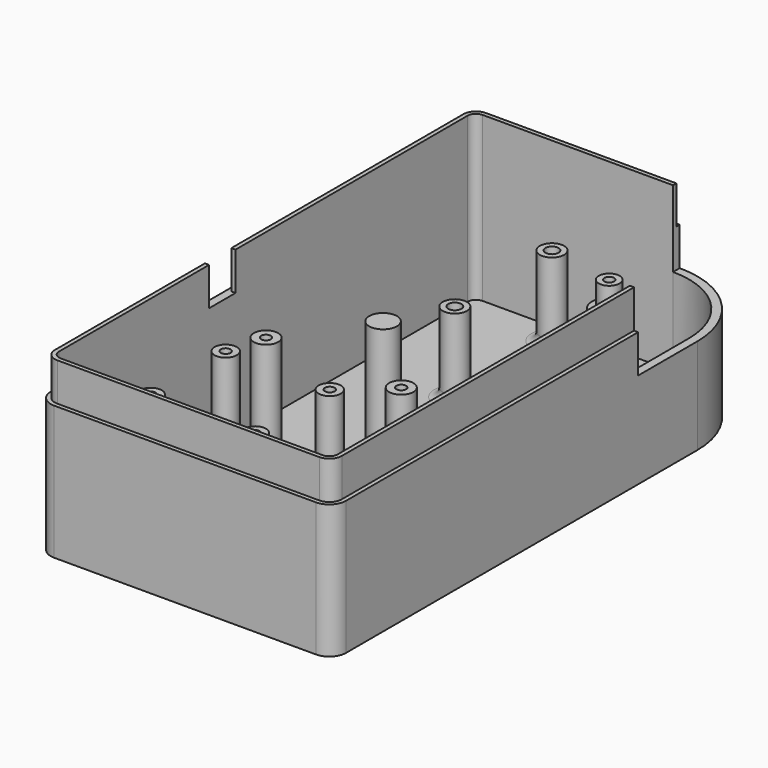
from build123d import *

# Parameters (mm, degrees)
PAD_DEPTH     = 2.4
PAD001_DEPTH  = 25.2
SKETCH002_R   = 3.5
SKETCH002_R_2 = 1.9
PAD002_DEPTH  = 23
SKETCH003_R   = 5
SKETCH003_R_2 = 1.4
PAD003_DEPTH  = 25.4
SKETCH004_R   = 3
SKETCH004_R_2 = 1.4
PAD004_DEPTH  = 7.2
SKETCH005_R   = 3.5
SKETCH005_R_2 = 1.4
SKETCH005_R_3 = 4
PAD005_DEPTH  = 34.6
PAD006_DEPTH  = 11
PAD007_DEPTH  = 11
SKETCH008_R   = 3.2
SKETCH008_R_2 = 1.4
PAD008_DEPTH  = 43.85
FILLET_R      = 2.4


with BuildPart() as part:
    # Sketch → Pad (new body)
    with BuildSketch(Plane.XY):
        with BuildLine():
            ThreePointArc((-37.75, 78.4), (-41.144113, 76.994113), (-42.55, 73.6))
            Line((-42.55, 73.6), (-42.55, -73.6))
            ThreePointArc((-42.55, -73.6), (-41.144113, -76.994113), (-37.75, -78.4))
            Line((-37.75, -78.4), (37.75, -78.4))
            ThreePointArc((37.75, -78.4), (41.144113, -76.994113), (42.55, -73.6))
            Line((42.55, 53), (42.55, -73.6))
            ThreePointArc((42.55, 53), (35.110512, 70.960512), (17.15, 78.4))
            Line((-37.75, 78.4), (17.15, 78.4))
        make_face()
    extrude(amount=PAD_DEPTH)

    # Sketch001 → Pad001 (join)
    with BuildSketch(Plane.XY.offset(2.4)):
        with BuildLine():
            ThreePointArc((-37.75, 78.4), (-41.144113, 76.994113), (-42.55, 73.6))
            Line((-42.55, 73.6), (-42.55, -73.6))
            ThreePointArc((-42.55, -73.6), (-41.144113, -76.994113), (-37.75, -78.4))
            Line((37.75, -78.4), (-37.75, -78.4))
            ThreePointArc((37.75, -78.4), (41.144113, -76.994113), (42.55, -73.6))
            Line((42.55, 53), (42.55, -73.6))
            ThreePointArc((42.55, 53), (35.110512, 70.960512), (17.15, 78.4))
            Line((-37.75, 78.4), (17.15, 78.4))
        make_face()
        with BuildLine():
            ThreePointArc((-37.75, 76), (-39.447056, 75.297056), (-40.15, 73.6))
            Line((-40.15, -73.6), (-40.15, 73.6))
            ThreePointArc((-40.15, -73.6), (-39.447056, -75.297056), (-37.75, -76))
            Line((37.75, -76), (-37.75, -76))
            ThreePointArc((37.75, -76), (39.447056, -75.297056), (40.15, -73.6))
            Line((40.15, 53), (40.15, -73.6))
            ThreePointArc((40.15, 53), (33.413456, 69.263456), (17.15, 76))
            Line((-37.75, 76), (17.15, 76))
        make_face(mode=Mode.SUBTRACT)
    extrude(amount=PAD001_DEPTH)

    # Sketch002 → Pad002 (join)
    with BuildSketch(Plane.XY.offset(2.4)):
        with Locations((-13.35, 70.5)):
            Circle(SKETCH002_R)
        with Locations((-13.35, 70.5)):
            Circle(SKETCH002_R_2, mode=Mode.SUBTRACT)
        with Locations((-13.35, 35.5)):
            Circle(SKETCH002_R)
        with Locations((-13.35, 35.5)):
            Circle(SKETCH002_R_2, mode=Mode.SUBTRACT)
    extrude(amount=PAD002_DEPTH)

    # Sketch003 → Pad003 (join)
    with BuildSketch(Plane.XY.offset(2.4)):
        with Locations((17.15, 53)):
            Circle(SKETCH003_R)
        with Locations((17.15, 53)):
            Circle(SKETCH003_R_2, mode=Mode.SUBTRACT)
    extrude(amount=PAD003_DEPTH)

    # Sketch004 → Pad004 (join)
    with BuildSketch(Plane.XY.offset(27.8)):
        with Locations((17.15, 53)):
            Circle(SKETCH004_R)
        with Locations((17.15, 53)):
            Circle(SKETCH004_R_2, mode=Mode.SUBTRACT)
    extrude(amount=PAD004_DEPTH)

    # Sketch005 → Pad005 (join)
    with BuildSketch(Plane.XY.offset(2.4)):
        with Locations((-23.15, -20.3)):
            Circle(SKETCH005_R)
        with Locations((-23.15, -20.3)):
            Circle(SKETCH005_R_2, mode=Mode.SUBTRACT)
        with Locations((15.85, -20.3)):
            Circle(SKETCH005_R)
        with Locations((15.85, -20.3)):
            Circle(SKETCH005_R_2, mode=Mode.SUBTRACT)
        with Locations((-7.55, 2.4)):
            Circle(SKETCH005_R_3)
    extrude(amount=PAD005_DEPTH)

    # Sketch006 → Pad006 (join)
    with BuildSketch(Plane.XY.offset(27.6)):
        with BuildLine():
            ThreePointArc((-37.75, 76), (-39.447056, 75.297056), (-40.15, 73.6))
            Line((-40.15, 73.6), (-40.15, -73.6))
            ThreePointArc((-40.15, -73.6), (-39.447056, -75.297056), (-37.75, -76))
            Line((-37.75, -76), (37.75, -76))
            ThreePointArc((37.75, -76), (39.447056, -75.297056), (40.15, -73.6))
            Line((40.15, -73.6), (40.15, 31.686869))
            Line((40.15, 31.686869), (42.55, 31.686869))
            Line((42.55, 31.686869), (42.55, -73.6))
            ThreePointArc((37.75, -78.4), (41.144113, -76.994113), (42.55, -73.6))
            Line((-37.75, -78.4), (37.75, -78.4))
            ThreePointArc((-42.55, -73.6), (-41.144113, -76.994113), (-37.75, -78.4))
            Line((-42.55, 73.6), (-42.55, -73.6))
            ThreePointArc((-37.75, 78.4), (-41.144113, 76.994113), (-42.55, 73.6))
            Line((17.15, 78.4), (-37.75, 78.4))
            Line((17.15, 78.4), (17.15, 76))
            Line((-37.75, 76), (17.15, 76))
        make_face()
    extrude(amount=PAD006_DEPTH)

    # Sketch007 → Pad007 (join)
    with BuildSketch(Plane.XY.offset(38.6)):
        with BuildLine():
            ThreePointArc((-37.75, 76), (-39.447056, 75.297056), (-40.15, 73.6))
            Line((-40.15, 73.6), (-40.15, -10.05))
            Line((-41.35, -10.05), (-40.15, -10.05))
            Line((-41.35, 73.6), (-41.35, -10.05))
            ThreePointArc((-37.75, 77.2), (-40.295584, 76.145584), (-41.35, 73.6))
            Line((-37.75, 77.2), (17.15, 77.2))
            Line((17.15, 77.2), (17.15, 76))
            Line((-37.75, 76), (17.15, 76))
        make_face()
        with BuildLine():
            ThreePointArc((37.75, -76), (39.447056, -75.297056), (40.15, -73.6))
            Line((40.15, 31.686869), (40.15, -73.6))
            Line((40.15, 31.686869), (41.35, 31.686869))
            Line((41.35, 31.686869), (41.35, -73.6))
            ThreePointArc((37.75, -77.2), (40.295584, -76.145584), (41.35, -73.6))
            Line((-37.75, -77.2), (37.75, -77.2))
            ThreePointArc((-41.35, -73.6), (-40.295584, -76.145584), (-37.75, -77.2))
            Line((-41.35, -73.6), (-41.35, -19.55))
            Line((-41.35, -19.55), (-40.15, -19.55))
            Line((-40.15, -73.6), (-40.15, -19.55))
            ThreePointArc((-40.15, -73.6), (-39.447056, -75.297056), (-37.75, -76))
            Line((37.75, -76), (-37.75, -76))
        make_face()
    extrude(amount=PAD007_DEPTH)

    # Sketch008 → Pad008 (join)
    with BuildSketch(Plane.XY.offset(2.4)):
        with Locations((-15, -45)):
            Circle(SKETCH008_R)
        with Locations((-15, -45)):
            Circle(SKETCH008_R_2, mode=Mode.SUBTRACT)
        with Locations((15, -45)):
            Circle(SKETCH008_R)
        with Locations((15, -45)):
            Circle(SKETCH008_R_2, mode=Mode.SUBTRACT)
        with Locations((-15, -72)):
            Circle(SKETCH008_R)
        with Locations((-15, -72)):
            Circle(SKETCH008_R_2, mode=Mode.SUBTRACT)
        with Locations((15, -72)):
            Circle(SKETCH008_R)
        with Locations((15, -72)):
            Circle(SKETCH008_R_2, mode=Mode.SUBTRACT)
    extrude(amount=PAD008_DEPTH)

    # Fillet
    fillet_edges = [part.edges().sort_by_distance(p)[0] for p in [
        (-16.85, 35.5, 2.4),
        (-16.85, 70.5, 2.4),
        (-11.55, 2.4, 2.4),
        (-26.65, -20.3, 2.4),
        (12.35, -20.3, 2.4),
        (11.8, -45, 2.4),
        (-18.2, -45, 2.4),
        (-18.2, -72, 2.4),
        (11.8, -72, 2.4),
        (12.15, 53, 2.4),
    ]]
    fillet(fillet_edges, radius=FILLET_R)


solid = part.part
